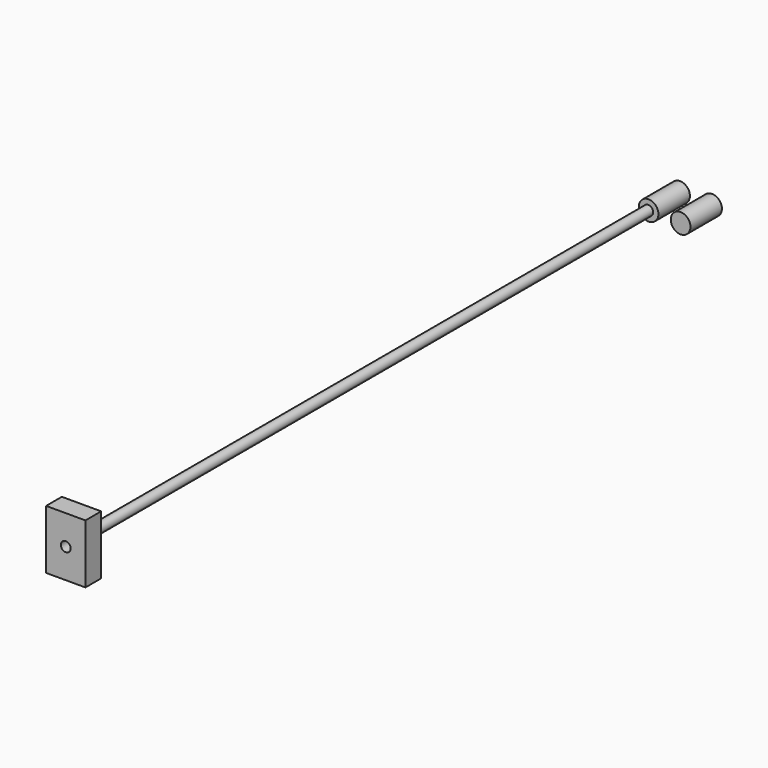
from build123d import *

# Parameters (mm, degrees)
F0_R     = 12.7
F1_DEPTH = 50.8
F2_R     = 6.35
F3_DEPTH = 914.4
F4_W     = 50.8
F4_H     = 76.2
F4_R     = 6.35
F5_DEPTH = 25.4


with BuildPart() as f1:
    # F0 (on Front) → F1 (new body)
    with BuildSketch(Plane.XZ):
        with Locations((-53.9455996944, 47.9323024082)):
            Circle(F0_R)
    extrude(amount=-F1_DEPTH)


with BuildPart() as f1b:
    # F0 (on Front) → F1, piece 2 (new body)
    with BuildSketch(Plane.XZ):
        with Locations((-12.6364087513, 46.8546705113)):
            Circle(F0_R)
    extrude(amount=-F1_DEPTH)


with BuildPart() as f3:
    # F2 (on Front) → F3 (new body)
    with BuildSketch(Plane.XZ):
        with Locations((-54.395288229, 47.7757565677)):
            Circle(F2_R)
    extrude(amount=F3_DEPTH)


with BuildPart() as f3b:
    # F2 (on Front) → F3, piece 2 (new body)
    with BuildSketch(Plane.XZ):
        with Locations((-12.663452886, 46.6245338321)):
            Circle(F2_R)
    extrude(amount=F3_DEPTH)


with BuildPart() as f5:
    # F4 (on face) → F5 (new body)
    with BuildSketch(Plane.XZ.offset(914.4)):
        with Locations((-54.395288229, 47.7757565677)):
            Rectangle(F4_W, F4_H)
        with Locations((-54.395288229, 47.7757565677)):
            Circle(F4_R, mode=Mode.SUBTRACT)
    extrude(amount=F5_DEPTH)


solid = Compound([f1.part, f1b.part, f3.part, f5.part])
